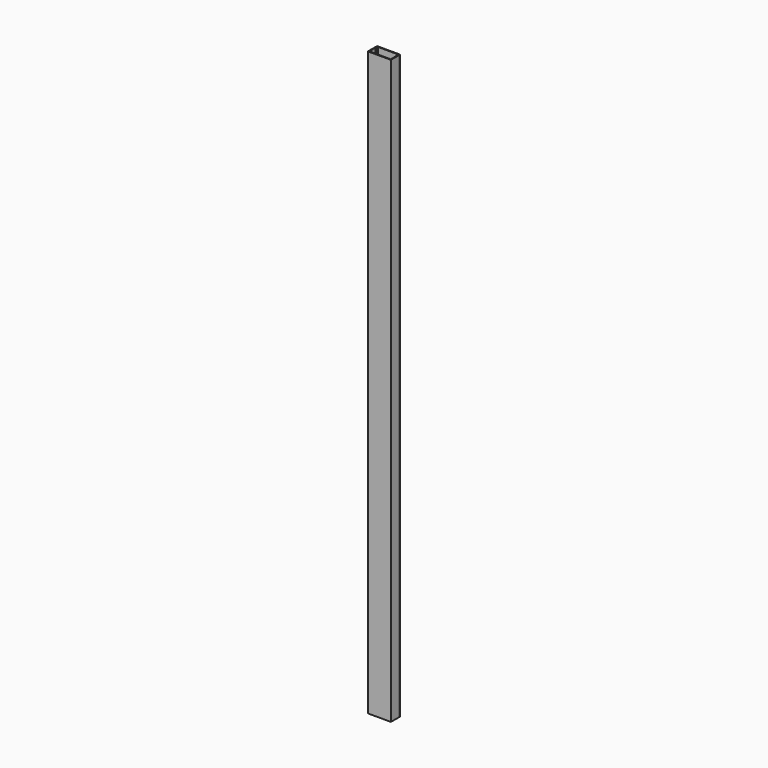
from build123d import *

# Parameters (mm, degrees)
F1_DEPTH = 760
F2_DEPTH = 760


with BuildPart() as f1:
    # F0 (on Top) → F1 (new body)
    with BuildSketch(Plane.XY):
        Polygon((-14, 12), (-15, 12), (-15, 0), (15, 0), (15, 12), (14, 12), (14, 14), (13, 14), (13, 11), (14, 11), (14, 1), (-14, 1), (-14, 11), (-13, 11), (-13, 14), (-14, 14), align=None)
    extrude(amount=F1_DEPTH)


with BuildPart() as f2:
    # F0 (on Top) → F2 (new body)
    with BuildSketch(Plane.XY):
        Polygon((15, 15), (-15, 15), (-15, 12), (-14, 12), (-14, 14), (-13, 14), (13, 14), (14, 14), (14, 12), (15, 12), align=None)
    extrude(amount=F2_DEPTH)


solid = Compound([f1.part, f2.part])
